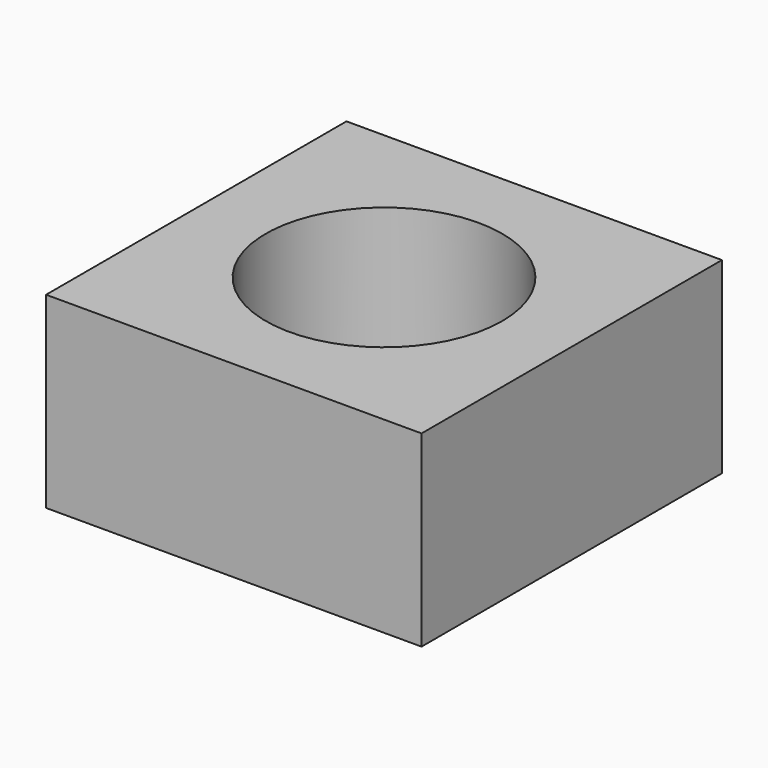
from build123d import *

# Parameters (mm, degrees)
CYLINDER037_R     = 4
CYLINDER037_DEPTH = 10
BOX016_W          = 12.7
BOX016_H          = 12.7
BOX016_DEPTH      = 6.35


with BuildPart() as cylinder037:
    # Cylinder037 → Cylinder037 (new body)
    with BuildSketch(Plane(origin=(6.35, 6.35, 0), x_dir=(1, 0, 0), z_dir=(0, 0, 1))):
        Circle(CYLINDER037_R)
    extrude(amount=CYLINDER037_DEPTH)


with BuildPart() as m8_nut003:
    # Box016 → Box016 (new body)
    with BuildSketch(Plane.XY):
        with Locations((6.35, 6.35)):
            Rectangle(BOX016_W, BOX016_H)
    extrude(amount=BOX016_DEPTH)

    # Cut014: cut Cylinder037
    add(cylinder037.part, mode=Mode.SUBTRACT)


with BuildPart() as m8_nut003_1:
    # Cut014 placement: moved
    add(m8_nut003.part.moved(Location((-25.4, -6.35, 0))))


solid = m8_nut003_1.part
